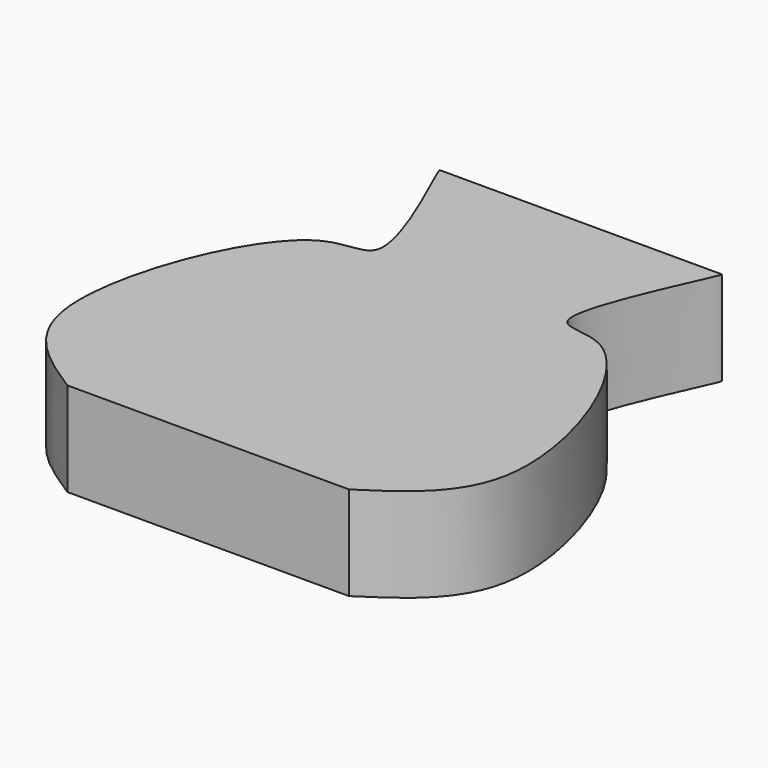
from build123d import *

# Parameters (mm, degrees)
F1_DEPTH = 25.4


with BuildPart() as f1:
    # F0 (on Top) → F1 (new body)
    with BuildSketch(Plane.XY):
        with BuildLine():
            Line((-38.1, -71.523140604), (0, -71.523140604))
            Line((0, -71.523140604), (38.1, -71.523140604))
            add(Edge.make_bspline(
                [(38.1, -71.523140604), (48.2741954536, -64.9624276604), (71.9308258893, -49.7077215551), (44.8096160472, 21.3696690898), (16.6510485068, 10.4109744948), (38.2087855797, 53.1452856614), (38.1570430733, 54.4417662738), (38.1346509844, 54.4942833535)],
                knots=[0, 0, 0, 0, 0.2446005346, 0.5687353342, 0.7203173401, 0.9738167162, 0.9922850496, 0.9922850496, 0.9922850496, 0.9922850496], degree=3))
            Line((38.1346509844, 54.4942833535), (-38.1346509844, 54.4942833535))
            add(Edge.make_bspline(
                [(-38.1, -71.523140604), (-48.2741954536, -64.9624276604), (-71.9308258893, -49.7077215551), (-44.8096160472, 21.3696690898), (-16.6510485068, 10.4109744948), (-38.2087855797, 53.1452856614), (-38.1570430733, 54.4417662738), (-38.1346509844, 54.4942833535)],
                knots=[0, 0, 0, 0, 0.2446005346, 0.5687353342, 0.7203173401, 0.9738167162, 0.9922850496, 0.9922850496, 0.9922850496, 0.9922850496], degree=3))
        make_face()
    extrude(amount=F1_DEPTH)


solid = f1.part
